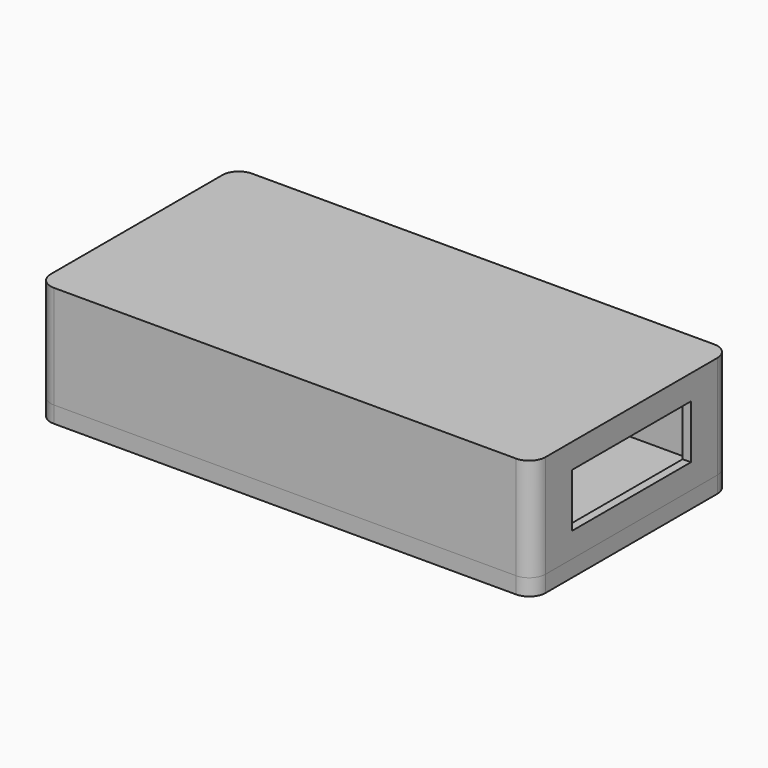
from build123d import *

# Parameters (mm, degrees)
PAD_DEPTH     = 25
THICKNESS_T   = -2
SKETCH003_W   = 36
SKETCH003_H   = 13
POCKET_DEPTH  = 120.001
PAD001_DEPTH  = 4
SKETCH002_W   = 15
SKETCH002_H   = 2
SKETCH002_W_2 = 2
SKETCH002_H_2 = 15
PAD002_DEPTH  = 1


with BuildPart() as base:
    # Sketch → Pad (new body)
    with BuildSketch(Plane.XY):
        with BuildLine():
            ThreePointArc((-56, 30), (-58.828427, 28.828427), (-60, 26))
            Line((-60, -26), (-60, 26))
            ThreePointArc((-60, -26), (-58.828427, -28.828427), (-56, -30))
            Line((56, -30), (-56, -30))
            ThreePointArc((56, -30), (58.828427, -28.828427), (60, -26))
            Line((60, 26), (60, -26))
            ThreePointArc((60, 26), (58.828427, 28.828427), (56, 30))
            Line((-56, 30), (56, 30))
        make_face()
    extrude(amount=PAD_DEPTH)

    # Thickness
    thickness_openings = [base.faces().sort_by_distance(p)[0] for p in [
        (0, 0, 0),
    ]]
    offset(amount=THICKNESS_T, openings=thickness_openings)

    # Sketch003 (on Face2 of Thickness) → Pocket (cut, through all)
    with BuildSketch(Plane(origin=(-60, 0, 0), x_dir=(0, -1, 0), z_dir=(-1, 0, 0))):
        with Locations((0, 12.5)):
            Rectangle(SKETCH003_W, SKETCH003_H)
    extrude(amount=-POCKET_DEPTH, mode=Mode.SUBTRACT)


with BuildPart() as lid:
    # Sketch001 → Pad001 (new body)
    with BuildSketch(Plane.XY):
        with BuildLine():
            ThreePointArc((-56, 30), (-58.828427, 28.828427), (-60, 26))
            Line((-60, -26), (-60, 26))
            ThreePointArc((-60, -26), (-58.828427, -28.828427), (-56, -30))
            Line((56, -30), (-56, -30))
            ThreePointArc((56, -30), (58.828427, -28.828427), (60, -26))
            Line((60, 26), (60, -26))
            ThreePointArc((60, 26), (58.828427, 28.828427), (56, 30))
            Line((-56, 30), (56, 30))
        make_face()
    extrude(amount=-PAD001_DEPTH)

    # Sketch002 (on Face9 of Pad001) → Pad002 (join)
    with BuildSketch(Plane.XY):
        with Locations((-28, 26.8)):
            Rectangle(SKETCH002_W, SKETCH002_H)
        with Locations((-56.8, 0)):
            Rectangle(SKETCH002_W_2, SKETCH002_H_2)
        with Locations((-28, -26.8)):
            Rectangle(SKETCH002_W, SKETCH002_H)
    pad002 = extrude(amount=PAD002_DEPTH)

    # Mirrored: Pad002 across Sketch002 V_Axis
    add(pad002.mirror(Plane(origin=(0, 0, 0), x_dir=(0, 0, 1), z_dir=(1, 0, 0))))


solid = Compound([base.part, lid.part])
